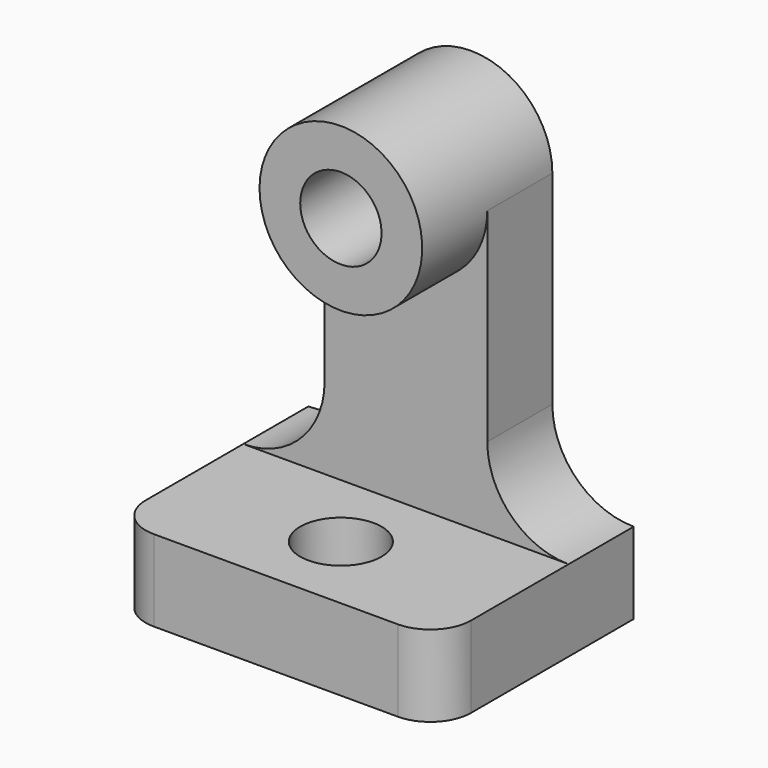
from build123d import *

# Parameters (mm, degrees)
F0_W     = 50.8
F0_H     = 12.7
F1_DEPTH = 38.1
F3_DEPTH = 12.7
F2_R     = 6.35
F4_DEPTH = 25.4
F5_R     = 6.35
F6_DEPTH = 12.701
F7_R     = 6.35


with BuildPart() as f1:
    # F0 (on Front) → F1 (new body)
    with BuildSketch(Plane.XZ):
        with Locations((-25.4, -6.35)):
            Rectangle(F0_W, F0_H)
    extrude(amount=F1_DEPTH)

    # F2 (on face) → F3 (join)
    with BuildSketch(Plane(origin=(0, 0, 0), x_dir=(-1, 0, 0), z_dir=(0, 1, 0))):
        with BuildLine():
            Line((38.1, 12.7), (38.1, 44.45))
            ThreePointArc((38.1, 44.45), (25.4, 31.75), (12.7, 44.45))
            Line((12.7, 44.45), (12.7, 12.7))
            ThreePointArc((12.7, 12.7), (8.980256, 3.719744), (0, 0))
            Line((0, 0), (50.8, 0))
            ThreePointArc((50.8, 0), (41.819744, 3.719744), (38.1, 12.7))
        make_face()
    extrude(amount=-F3_DEPTH)

    # F2 (on face) → F4 (join)
    with BuildSketch(Plane(origin=(0, 0, 0), x_dir=(-1, 0, 0), z_dir=(0, 1, 0))):
        with BuildLine():
            ThreePointArc((12.7, 44.45), (25.4, 31.75), (38.1, 44.45))
            ThreePointArc((38.1, 44.45), (25.4, 57.15), (12.7, 44.45))
        make_face()
        with Locations((25.4, 44.45)):
            Circle(F2_R, mode=Mode.SUBTRACT)
    extrude(amount=-F4_DEPTH)

    # F5 (on face) → F6 (cut, through all)
    with BuildSketch(Plane.XY):
        with Locations((-25.4, -25.4)):
            Circle(F5_R)
    extrude(amount=-F6_DEPTH, mode=Mode.SUBTRACT)

    # F7
    f7_edges = [f1.edges().sort_by_distance(p)[0] for p in [
        (-50.8, -38.1, -6.35),
        (0, -38.1, -6.35),
    ]]
    fillet(f7_edges, radius=F7_R)


solid = f1.part
